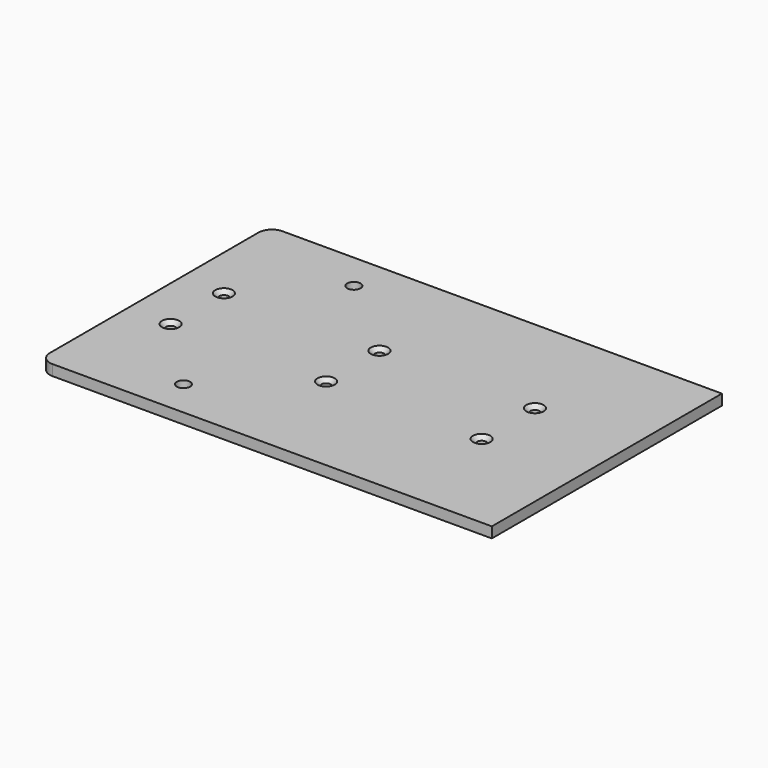
from build123d import *

# Parameters (mm, degrees)
F0_W           = 170
F0_H           = 54
F1_DEPTH       = 4
F3_D           = 5
F4_D           = 3.5
F4_CSINK_D     = 6.5
F4_CSINK_ANGLE = 90
F6_R           = 5


with BuildPart() as f1:
    # F0 (on Top) → F1 (new body)
    with BuildSketch(Plane.XY):
        with Locations((10.4193558595, 27)):
            Rectangle(F0_W, F0_H)
    extrude(amount=F1_DEPTH)

    # F3 (through all)
    with Locations(Plane.XY.offset(4)):
        with Locations((-31.5806441405, 40)):
            Hole(F3_D / 2)

    # F4 (through all)
    with Locations(Plane.XY.offset(4)):
        with Locations((-58.4, 12.5), (0, 12.5), (58.4, 12.5)):
            CounterSinkHole(F4_D / 2, F4_CSINK_D / 2, counter_sink_angle=F4_CSINK_ANGLE)

    # F5: F1 across face


with BuildPart() as f1_1:
    add(f1.part)
    add(f1.part.mirror(Plane(origin=(10.4193558595, 0, 2), x_dir=(1, 0, 0), z_dir=(0, -1, 0))))

    # F6
    f6_edges = [f1_1.edges().sort_by_distance(p)[0] for p in [
        (-74.580644, 54, 2),
        (-74.580644, -54, 2),
    ]]
    fillet(f6_edges, radius=F6_R)


solid = f1_1.part
